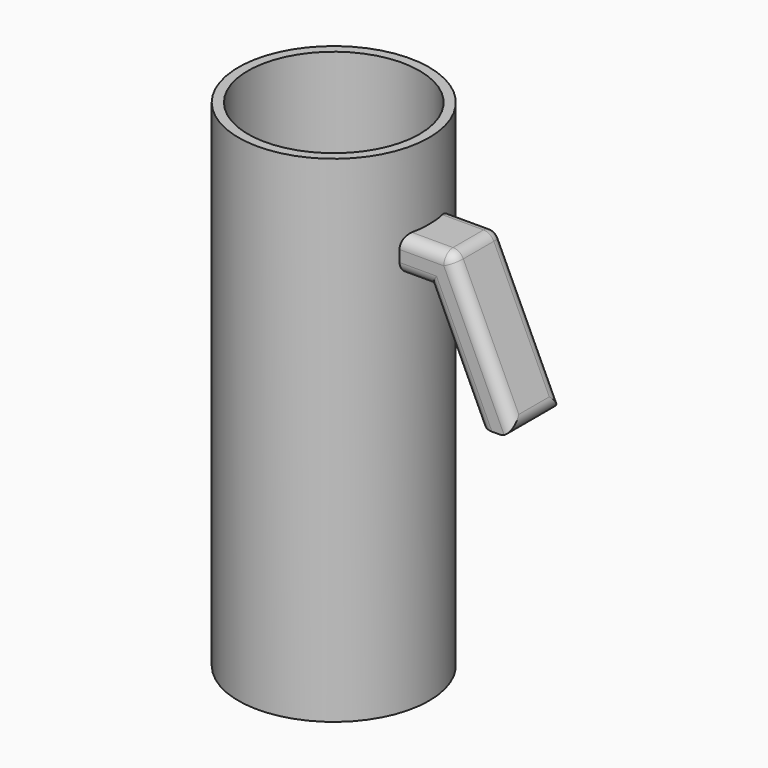
from build123d import *

# Parameters (mm, degrees)
F0_R     = 28.575
F2_DEPTH = 3.175
F0_R_2   = 31.75
F3_DEPTH = 165.1
F4_DEPTH = 10.16
F5_R     = 3.81


with BuildPart() as f2:
    # F0 (on Top) → F2 (new body)
    with BuildSketch(Plane.XY):
        Circle(F0_R)
    extrude(amount=F2_DEPTH)


with BuildPart() as f3:
    # F0 (on Top) → F3 (new body)
    with BuildSketch(Plane.XY):
        Circle(F0_R_2)
        Circle(F0_R, mode=Mode.SUBTRACT)
    extrude(amount=F3_DEPTH)


with BuildPart() as f4:
    # F1 (on Front) → F4 (new body, symmetric)
    with BuildSketch(Plane.XZ):
        Polygon((28.575, 139.7), (28.575, 128.27), (39.916662, 128.27), (56.60339, 92.485196), (69.215, 92.485196), (47.198375, 139.7), align=None)
    extrude(amount=F4_DEPTH, both=True)

    # F5
    f5_edges = [f4.edges().sort_by_distance(p)[0] for p in [
        (58.206688, 10.16, 116.092598),
        (47.198375, 0, 139.7),
        (58.206688, -10.16, 116.092598),
        (69.215, 0, 92.485196),
        (56.60339, 0, 92.485196),
        (48.260026, 10.16, 110.377598),
        (34.245831, 10.16, 128.27),
        (37.886688, 10.16, 139.7),
        (48.260026, -10.16, 110.377598),
        (34.245831, -10.16, 128.27),
        (37.886688, -10.16, 139.7),
    ]]
    fillet(f5_edges, radius=F5_R)


solid = Compound([f2.part, f3.part, f4.part])
